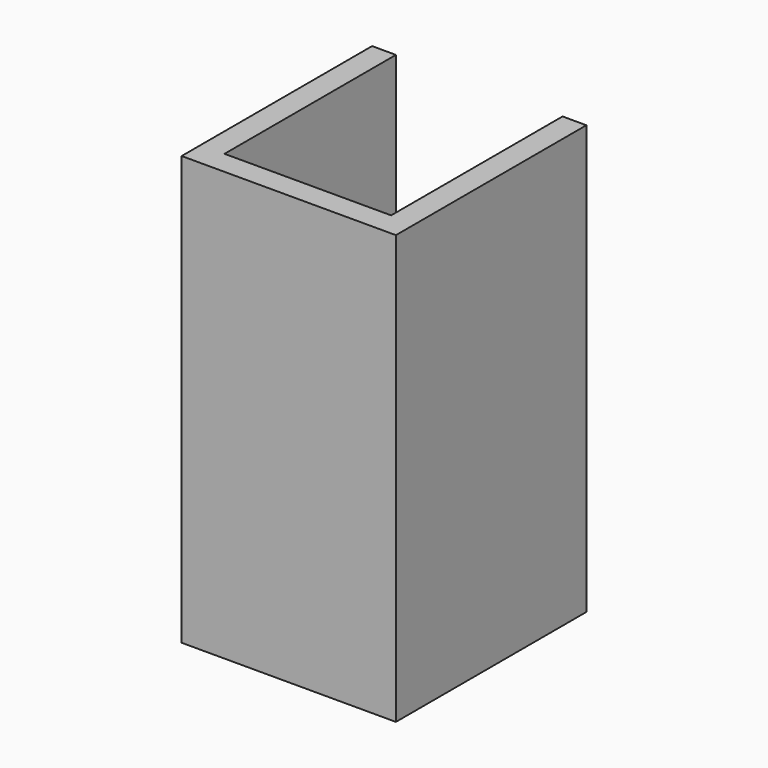
from build123d import *

# Parameters (mm, degrees)
F0_W     = 127
F0_H     = 228.6
F1_DEPTH = 12.7
F4_W     = 127
F4_H     = 228.6
F5_DEPTH = 12.7
F6_W     = 98.14891
F6_H     = 228.6
F7_DEPTH = 12.7


with BuildPart() as f1:
    # F0 (on Right) → F1 (new body)
    with BuildSketch(Plane.YZ):
        Rectangle(F0_W, F0_H)
    extrude(amount=-F1_DEPTH)



with BuildPart() as f5:
    # F4 (on offset) → F5 (new body)
    with BuildSketch(Plane.YZ.offset(-101.6)):
        Rectangle(F4_W, F4_H)
    extrude(amount=-F5_DEPTH)


with BuildPart() as f1_1:
    add(f1.part)

    add(f5.part)  # F7 merges F5
    # F6 (on offset) → F7 (join)
    with BuildSketch(Plane.XZ.offset(50.8)):
        with Locations((-57.461153, 0)):
            Rectangle(F6_W, F6_H)
    extrude(amount=F7_DEPTH)


solid = f1_1.part
